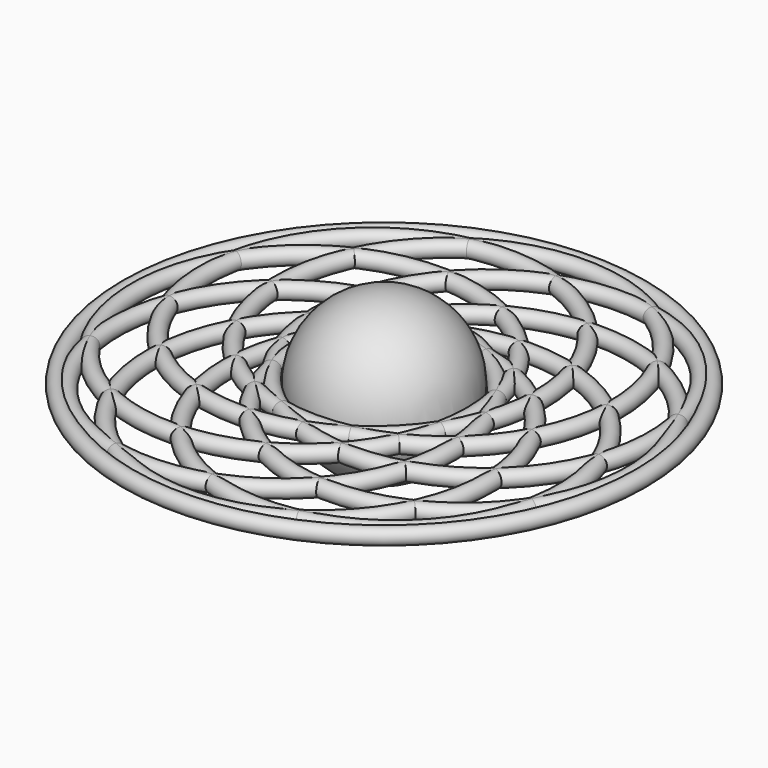
from build123d import *

# Parameters (mm, degrees)
F7_COUNT = 8


with BuildPart() as f1:
    # F0 (on Top) → F1 (revolve)
    with BuildSketch(Plane.XY):
        with BuildLine():
            Line((0, 127), (0, -127))
            ThreePointArc((0, -127), (127, 0), (0, 127))
        make_face()
    revolve(axis=Axis((0, 0, 0), (0, -1, 0)))


with BuildPart() as f5:
    # F5: sweep along a path in F3
    with BuildLine(Plane.XY) as f5_path:
        CenterArc((-127, 0), 266.7, 0, 360)
    # F4 (on Front) → F5 (sweep)
    with BuildSketch(Plane.XZ):
        with BuildLine():
            ThreePointArc((127, 0), (139.7, -12.7), (152.4, 0))
            ThreePointArc((152.4, 0), (139.7, 12.7), (127, 0))
        make_face()
    sweep(path=f5_path.line)


with BuildPart() as f7_1:
    # F7: instance of F5
    add(f5.part.rotate(Axis((0, 0, 46.653561), (0, 0, 1)), 1 * 360 / F7_COUNT))


with BuildPart() as f7_2:
    # F7: instance of F5
    add(f5.part.rotate(Axis((0, 0, 46.653561), (0, 0, 1)), 2 * 360 / F7_COUNT))


with BuildPart() as f7_3:
    # F7: instance of F5
    add(f5.part.rotate(Axis((0, 0, 46.653561), (0, 0, 1)), 3 * 360 / F7_COUNT))


with BuildPart() as f7_4:
    # F7: instance of F5
    add(f5.part.rotate(Axis((0, 0, 46.653561), (0, 0, 1)), 4 * 360 / F7_COUNT))


with BuildPart() as f7_5:
    # F7: instance of F5
    add(f5.part.rotate(Axis((0, 0, 46.653561), (0, 0, 1)), 5 * 360 / F7_COUNT))


with BuildPart() as f7_6:
    # F7: instance of F5
    add(f5.part.rotate(Axis((0, 0, 46.653561), (0, 0, 1)), 6 * 360 / F7_COUNT))


with BuildPart() as f7_7:
    # F7: instance of F5
    add(f5.part.rotate(Axis((0, 0, 46.653561), (0, 0, 1)), 7 * 360 / F7_COUNT))


with BuildPart() as f11:
    # F11: sweep along a path in F9
    with BuildLine(Plane.XY) as f11_path:
        CenterArc((0, 0), 406.4, 0, 360)
    # F10 (on Front) → F11 (sweep)
    with BuildSketch(Plane.XZ):
        with BuildLine():
            ThreePointArc((393.7, 0), (406.4, -12.7), (419.1, 0))
            ThreePointArc((419.1, 0), (406.4, 12.7), (393.7, 0))
        make_face()
    sweep(path=f11_path.line)


solid = Compound([f1.part, f5.part, f7_1.part, f7_2.part, f7_3.part, f7_4.part, f7_5.part, f7_6.part, f7_7.part, f11.part])
